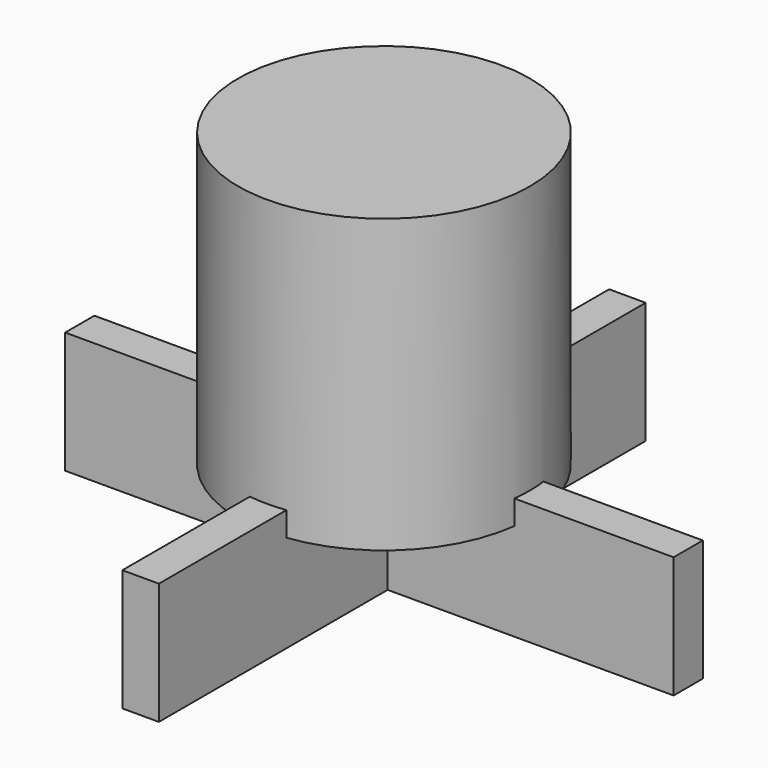
from build123d import *

# Parameters (mm, degrees)
PAD_DEPTH    = 5
SKETCH001_R  = 6
PAD001_DEPTH = 1
SKETCH002_R  = 6
PAD002_DEPTH = 11


with BuildPart() as part:
    # Sketch → Pad (new body)
    with BuildSketch(Plane.XY):
        Polygon((-0.75, 12.5), (-0.75, 0.75), (-12.5, 0.75), (-12.5, -0.75), (-0.75, -0.75), (-0.75, -12.5), (0.75, -12.5), (0.75, -0.75), (12.5, -0.75), (12.5, 0.75), (0.75, 0.75), (0.75, 12.5), align=None)
    extrude(amount=PAD_DEPTH)

    # Sketch001 (on Face14 of Pad) → Pad001 (join)
    with BuildSketch(Plane.XY.offset(5)):
        Circle(SKETCH001_R)
    extrude(amount=-PAD001_DEPTH)

    # Sketch002 (on Face19 of Pad001) → Pad002 (join)
    with BuildSketch(Plane.XY.offset(5)):
        Circle(SKETCH002_R)
    extrude(amount=PAD002_DEPTH)


solid = part.part
